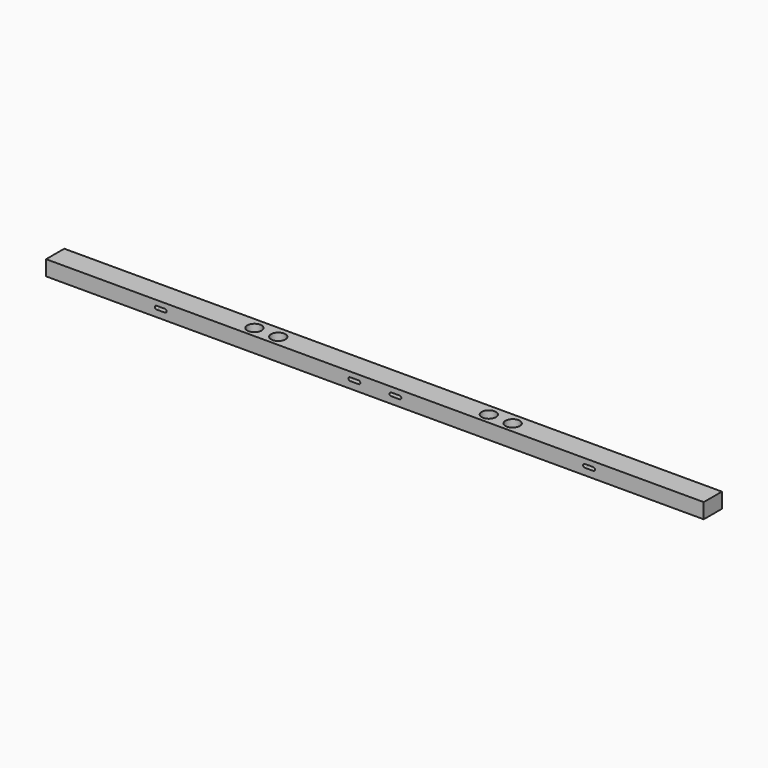
from build123d import *

# Parameters (mm, degrees)
SKETCH031_W          = 781
SKETCH031_H          = 27
PAD022_DEPTH         = 18
POCKET014_DEPTH      = 27.001
POCKET014_DEPTH_BACK = 0.001
SKETCH037_R          = 8.5
POCKET017_DEPTH      = 18.001
POCKET017_DEPTH_BACK = 0.001


with BuildPart() as part:
    # Sketch031 → Pad022 (new body)
    with BuildSketch(Plane.XY):
        Rectangle(SKETCH031_W, SKETCH031_H)
    extrude(amount=PAD022_DEPTH)

    # Sketch033 (on Face1 of Pad022) → Pocket014 (cut, two sides)
    with BuildSketch(Plane(origin=(0, 13.5, 0), x_dir=(-1, 0, 0), z_dir=(0, 1, 0))) as pocket014_sk:
        with BuildLine():
            ThreePointArc((-259.333333, 12), (-261.333333, 10), (-259.333333, 8))
            Line((-259.333333, 8), (-249.333333, 8))
            ThreePointArc((-249.333333, 8), (-247.333333, 10), (-249.333333, 12))
            Line((-249.333333, 12), (-259.333333, 12))
        make_face()
        with BuildLine():
            ThreePointArc((-29.333333, 12), (-31.333333, 10), (-29.333333, 8))
            Line((-29.333333, 8), (-19.333333, 8))
            ThreePointArc((-19.333333, 8), (-17.333333, 10), (-19.333333, 12))
            Line((-19.333333, 12), (-29.333333, 12))
        make_face()
        with BuildLine():
            ThreePointArc((19.333333, 12), (17.333333, 10), (19.333333, 8))
            Line((19.333333, 8), (29.333333, 8))
            ThreePointArc((29.333333, 8), (31.333333, 10), (29.333333, 12))
            Line((29.333333, 12), (19.333333, 12))
        make_face()
        with BuildLine():
            ThreePointArc((249.333333, 12), (247.333333, 10), (249.333333, 8))
            Line((249.333333, 8), (259.333333, 8))
            ThreePointArc((259.333333, 8), (261.333333, 10), (259.333333, 12))
            Line((259.333333, 12), (249.333333, 12))
        make_face()
    extrude(amount=-POCKET014_DEPTH, mode=Mode.SUBTRACT)
    extrude(pocket014_sk.sketch, amount=POCKET014_DEPTH_BACK, mode=Mode.SUBTRACT)

    # Sketch037 (on Face4 of Pocket014) → Pocket017 (cut, two sides)
    with BuildSketch(Plane.XY.offset(18)) as pocket017_sk:
        with Locations((-153.333333, -0.666667)):
            Circle(SKETCH037_R)
        with Locations((-125, -0.666667)):
            Circle(SKETCH037_R)
        with Locations((125, -0.666667)):
            Circle(SKETCH037_R)
        with Locations((153.333333, -0.666667)):
            Circle(SKETCH037_R)
    extrude(amount=-POCKET017_DEPTH, mode=Mode.SUBTRACT)
    extrude(pocket017_sk.sketch, amount=POCKET017_DEPTH_BACK, mode=Mode.SUBTRACT)


with BuildPart() as part_1:
    # Body022 placement: moved
    add(part.part.moved(Location((0, 404, 0))))


solid = part_1.part
